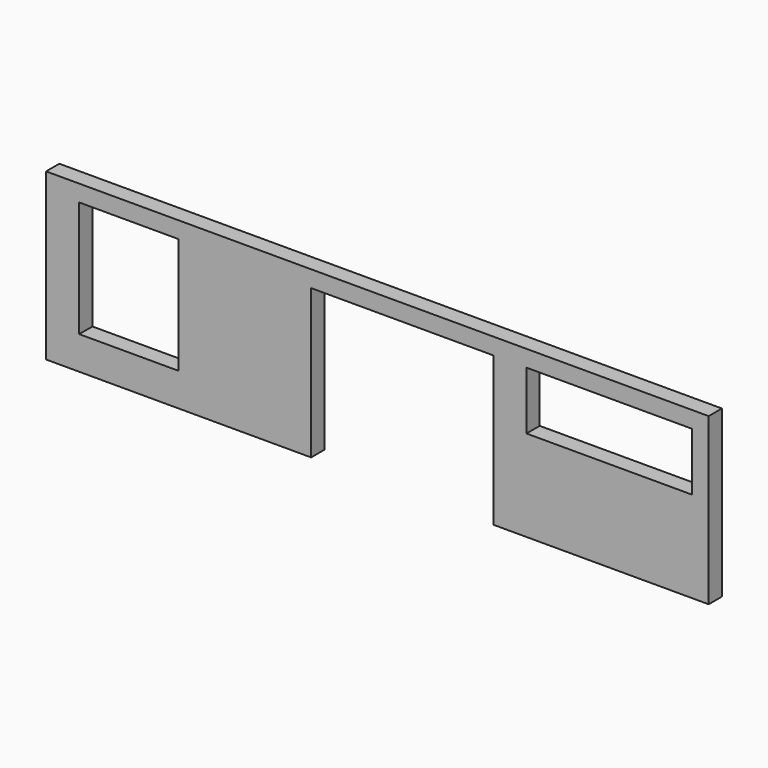
from build123d import *

# Parameters (mm, degrees)
F0_W     = 1016
F0_H     = 254
F1_DEPTH = 25.4
F2_W     = 254
F2_H     = 88.9
F2_W_2   = 279.4
F2_H_2   = 228.6
F2_W_3   = 152.4
F2_H_3   = 177.8
F3_DEPTH = 76.2


with BuildPart() as f1:
    # F0 (on Front) → F1 (new body)
    with BuildSketch(Plane.XZ):
        Rectangle(F0_W, F0_H)
    extrude(amount=F1_DEPTH)

    # F2 (on face) → F3 (cut)
    with BuildSketch(Plane(origin=(0, 0, 0), x_dir=(-1, 0, 0), z_dir=(0, 1, 0))):
        with Locations((-355.6, 57.15)):
            Rectangle(F2_W, F2_H)
        with Locations((-38.1, -12.7)):
            Rectangle(F2_W_2, F2_H_2)
        with Locations((381, 12.7)):
            Rectangle(F2_W_3, F2_H_3)
    extrude(amount=-F3_DEPTH, mode=Mode.SUBTRACT)


solid = f1.part
